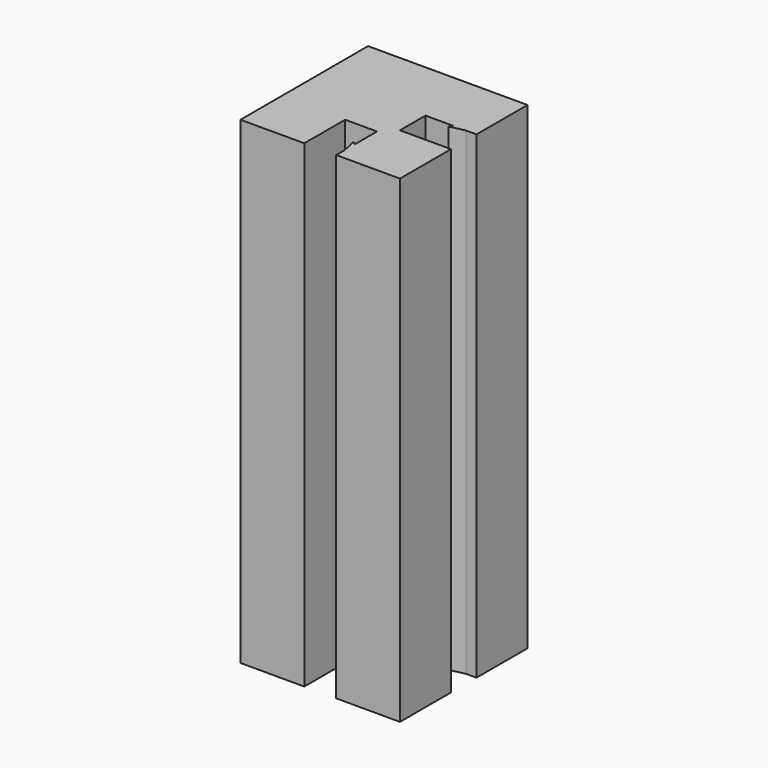
from build123d import *

# Parameters (mm, degrees)
F1_DEPTH = 75


with BuildPart() as f1:
    # F0 (on Top) → F1 (new body)
    with BuildSketch(Plane.XY):
        Polygon((2.5, -12.5), (12.5, -12.5), (12.5, -2.5), (4.5, -2.5), (4.5, 2.5), (8.822876, 2.5), (8.5, 2), (10.822876, 2.5), (12.5, 2.5), (12.5, 12.5), (-12.5, 12.5), (-12.5, -12.5), (-2.5, -12.5), (-2.5, -4.5), (2.5, -4.5), (2.5, -8.822876), (2, -8.5), (2.5, -10.822876), align=None)
    extrude(amount=F1_DEPTH)


solid = f1.part
